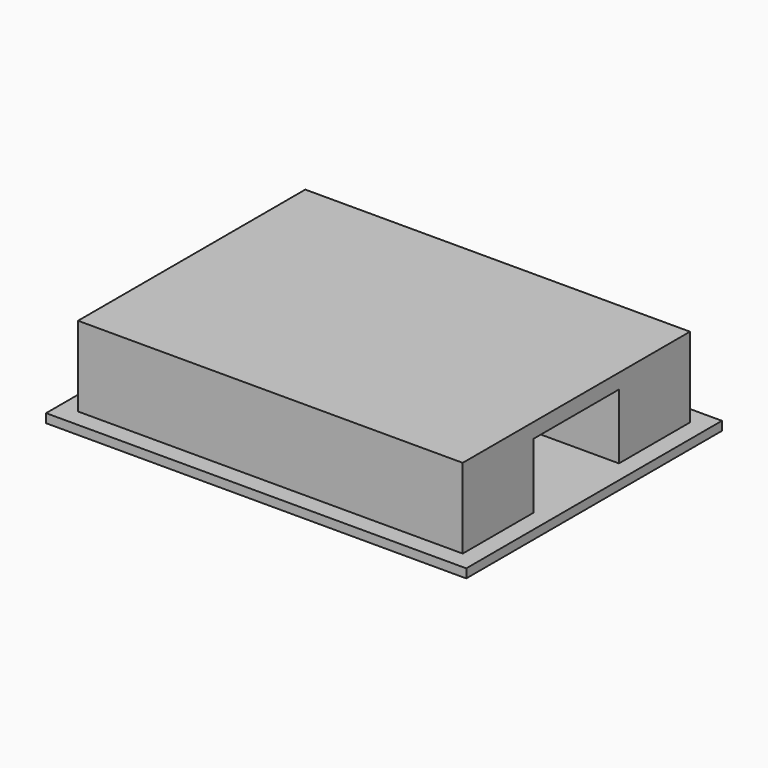
from build123d import *

# Parameters (mm, degrees)
F0_W     = 71
F0_H     = 54
F1_DEPTH = 1.5
F2_R     = 2.5
F3_DEPTH = 25
F4_W     = 65
F4_H     = 15
F5_DEPTH = 11
F6_W     = 65
F6_H     = 48
F7_DEPTH = 2.5


with BuildPart() as f1:
    # F0 (on Top) → F1 (new body)
    with BuildSketch(Plane.XY):
        Rectangle(F0_W, F0_H)
    extrude(amount=F1_DEPTH)

    # F2 (on face) → F3 (cut)
    with BuildSketch(Plane.XY.offset(1.5)):
        with Locations((-29.5, 0)):
            Circle(F2_R)
        with Locations((0.5, 0)):
            Circle(F2_R)
    extrude(amount=-F3_DEPTH, mode=Mode.SUBTRACT)

    # F4 (on face) → F5 (join)
    with BuildSketch(Plane.XY.offset(1.5)):
        with Locations((0, 16.5)):
            Rectangle(F4_W, F4_H)
        with Locations((0, -16.5)):
            Rectangle(F4_W, F4_H)
    extrude(amount=F5_DEPTH)

    # F6 (on face) → F7 (join)
    with BuildSketch(Plane.XY.offset(12.5)):
        Rectangle(F6_W, F6_H)
    extrude(amount=F7_DEPTH)


solid = f1.part
